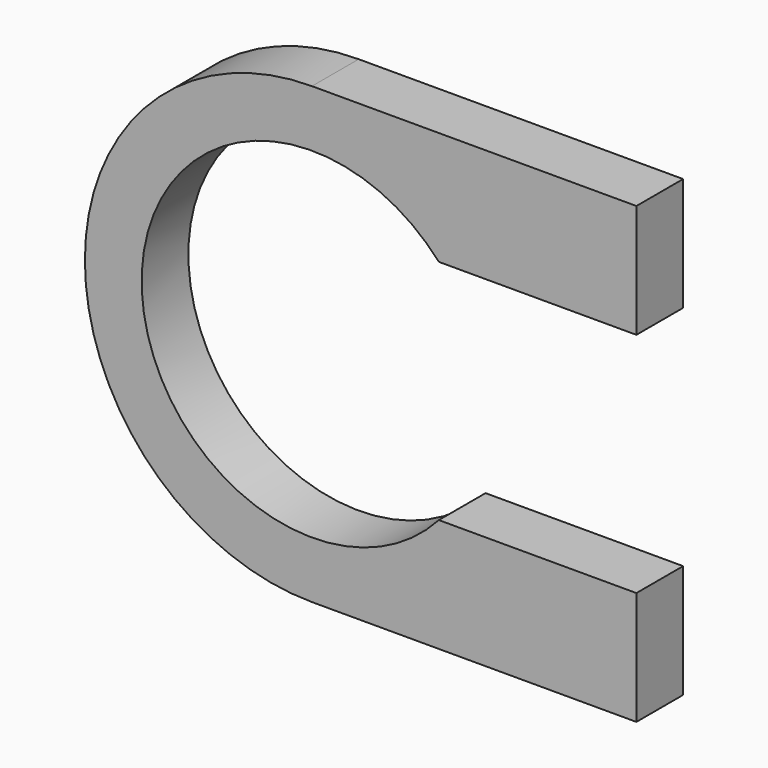
from build123d import *

# Parameters (mm, degrees)
PAD_DEPTH = 1.8


with BuildPart() as part:
    # Sketch → Pad (new body)
    with BuildSketch(Plane.XZ):
        with BuildLine():
            ThreePointArc((3.91, 3.503484), (-5.25, 0), (3.91, -3.503484))
            Line((10, -3.503484), (3.91, -3.503484))
            Line((10, -3.503484), (10, -7))
            Line((10, -7), (0, -7))
            ThreePointArc((0, 7), (-7, 0), (0, -7))
            Line((0, 7), (10, 7))
            Line((10, 7), (10, 3.503484))
            Line((3.91, 3.503484), (10, 3.503484))
        make_face()
    extrude(amount=PAD_DEPTH)


solid = part.part
